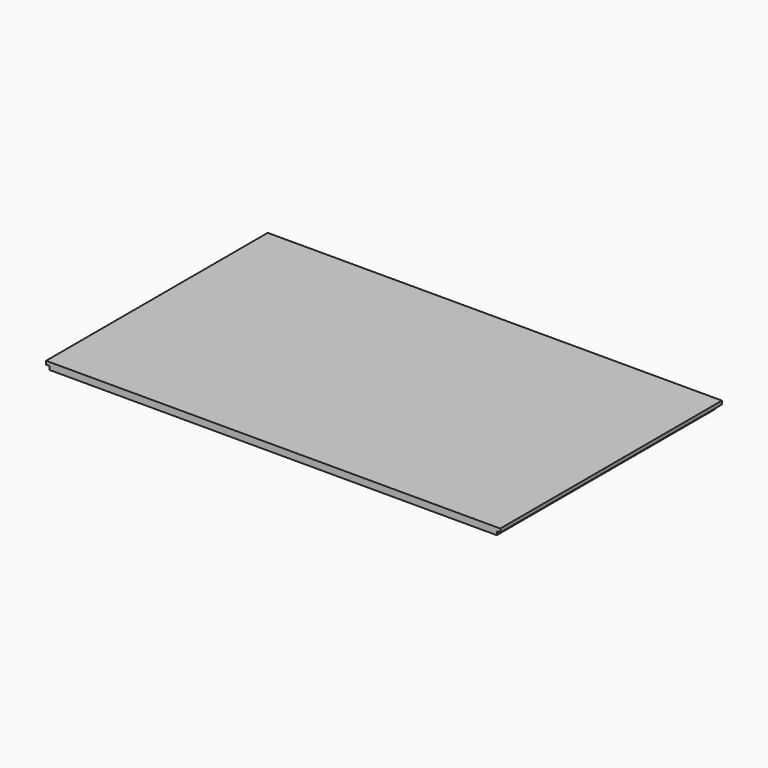
from build123d import *

# Parameters (mm, degrees)
F0_W     = 777
F0_H     = 474
F1_DEPTH = 12
F2_W     = 6
F2_H     = 474
F3_DEPTH = 6
F4_W     = 6
F4_H     = 474
F5_DEPTH = 6
F6_W     = 765
F6_H     = 6
F7_DEPTH = 6


with BuildPart() as f1:
    # F0 (on Top) → F1 (new body)
    with BuildSketch(Plane.XY):
        with Locations((0, -8.894133)):
            Rectangle(F0_W, F0_H)
    extrude(amount=F1_DEPTH)

    # F2 (on face) → F3 (cut)
    with BuildSketch(Plane(origin=(0, 0, 0), x_dir=(1, 0, 0), z_dir=(0, 0, -1))):
        with Locations((-385.5, 8.894133)):
            Rectangle(F2_W, F2_H)
    extrude(amount=-F3_DEPTH, mode=Mode.SUBTRACT)

    # F4 (on face) → F5 (cut)
    with BuildSketch(Plane(origin=(0, 0, 0), x_dir=(1, 0, 0), z_dir=(0, 0, -1))):
        with Locations((385.5, 8.894133)):
            Rectangle(F4_W, F4_H)
    extrude(amount=-F5_DEPTH, mode=Mode.SUBTRACT)

    # F6 (on face) → F7 (cut)
    with BuildSketch(Plane(origin=(0, 0, 0), x_dir=(1, 0, 0), z_dir=(0, 0, -1))):
        with Locations((0, -225.105867)):
            Rectangle(F6_W, F6_H)
    extrude(amount=-F7_DEPTH, mode=Mode.SUBTRACT)


solid = f1.part
